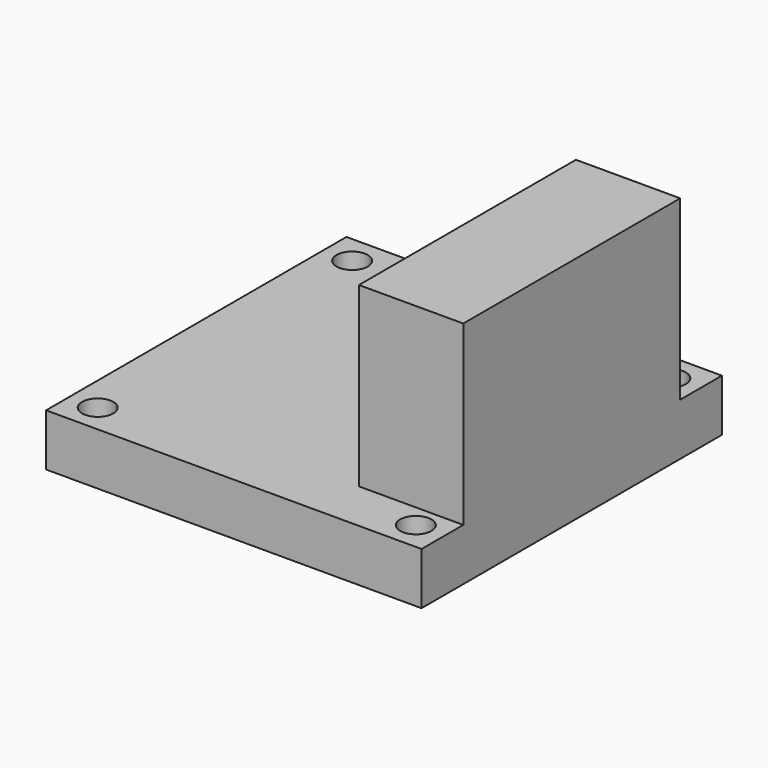
from build123d import *

# Parameters (mm, degrees)
SKETCH_W     = 36
SKETCH_H     = 36
PAD_DEPTH    = 5
SKETCH001_W  = 10
SKETCH001_H  = 26
PAD001_DEPTH = 17
SKETCH002_R  = 1.5
POCKET_DEPTH = 5


with BuildPart() as part:
    # Sketch → Pad (new body)
    with BuildSketch(Plane.XY):
        with Locations((18, 18)):
            Rectangle(SKETCH_W, SKETCH_H)
    extrude(amount=PAD_DEPTH)

    # Sketch001 → Pad001 (new body)
    with BuildSketch(Plane.XY.offset(5)):
        with Locations((31, 18)):
            Rectangle(SKETCH001_W, SKETCH001_H)
    extrude(amount=PAD001_DEPTH)

    # Sketch002 → Pocket (cut)
    with BuildSketch(Plane(origin=(0, 0, 0), x_dir=(1, 0, 0), z_dir=(0, 0, -1))):
        with Locations((2.75, -2.75)):
            Circle(SKETCH002_R)
        with Locations((33.25, -2.75)):
            Circle(SKETCH002_R)
        with Locations((33.25, -33.25)):
            Circle(SKETCH002_R)
        with Locations((2.75, -33.25)):
            Circle(SKETCH002_R)
    extrude(amount=-POCKET_DEPTH, mode=Mode.SUBTRACT)


solid = part.part
